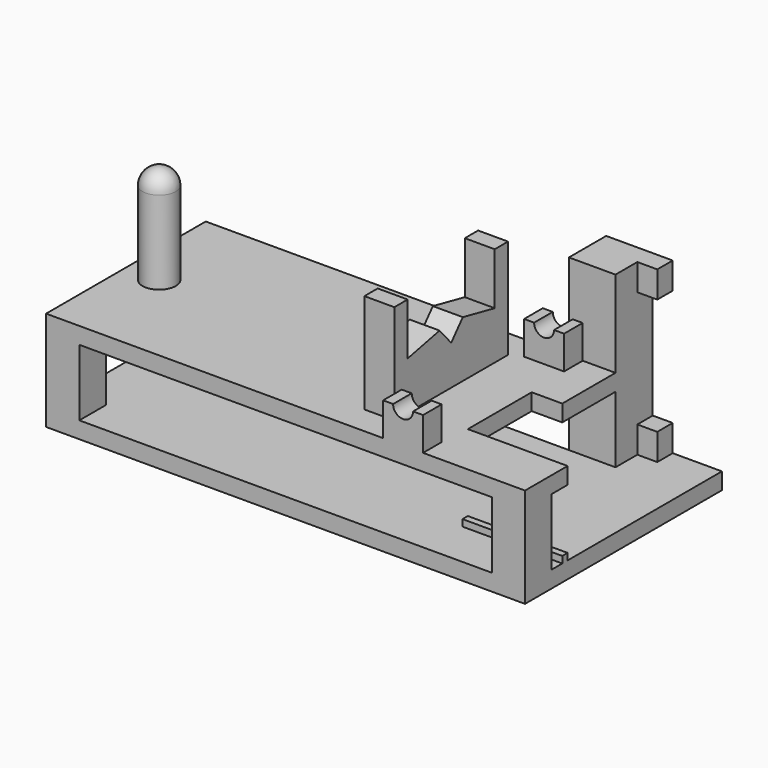
from build123d import *

# Parameters (mm, degrees)
F0_W      = 720
F0_H      = 300
F1_DEPTH  = 25
F2_W      = 50
F2_H      = 50
F3_DEPTH  = 100
F4_W      = 50
F4_H      = 50
F5_DEPTH  = 100
F6_W      = 50
F6_H      = 50
F7_DEPTH  = 25
F8_R      = 25
F9_DEPTH  = 150
F10_W     = 45
F10_H     = 106.8337794484
F11_DEPTH = 150
F13_DEPTH = 50
F14_W     = 70
F14_H     = 70
F15_DEPTH = 150
F16_DEPTH = 130
F17_R     = 25
F18_W     = 150
F18_H     = 120
F19_DEPTH = 25
F20_W     = 60
F20_H     = 35
F21_DEPTH = 50
F23_DEPTH = 300
F24_W     = 104
F24_H     = 100
F25_DEPTH = 150
F26_W     = 104
F26_H     = 170
F27_DEPTH = 25
F28_W     = 29
F28_H     = 40
F29_DEPTH = 30
F30_W     = 150
F30_H     = 10
F31_DEPTH = 10


with BuildPart() as f1:
    # F0 (on Top) → F1 (new body)
    with BuildSketch(Plane.XY):
        Rectangle(F0_W, F0_H)
    extrude(amount=F1_DEPTH)

    # F2 (on face) → F3 (join)
    with BuildSketch(Plane.XY.offset(25)):
        with Locations((-335, -125)):
            Rectangle(F2_W, F2_H)
    extrude(amount=F3_DEPTH)

    # F4 (on face) → F5 (join)
    with BuildSketch(Plane.XY.offset(25)):
        with Locations((335, -125)):
            Rectangle(F4_W, F4_H)
        with Locations((-335, 125)):
            Rectangle(F4_W, F4_H)
        with Locations((335, 125)):
            Rectangle(F4_W, F4_H)
    extrude(amount=F5_DEPTH)

    # F6 (on face) → F7 (join)
    with BuildSketch(Plane.XY.offset(125)):
        with Locations((-335, 125)):
            Rectangle(F6_W, F6_H)
        Polygon((360, 150), (-310, 150), (-310, 100), (-360, 100), (-360, -150), (360, -150), align=None)
    extrude(amount=F7_DEPTH)

    # F8 (on face) → F9 (join)
    with BuildSketch(Plane.XY.offset(150)):
        with Locations((-310, 0)):
            Circle(F8_R)
    extrude(amount=F9_DEPTH)

    # F10 (on face) → F11 (join)
    with BuildSketch(Plane.XY.offset(150)):
        with Locations((106.5, -53.4168897242)):
            Rectangle(F10_W, F10_H)
        with Locations((106.5, 53.4168897242)):
            Rectangle(F10_W, F10_H)
    extrude(amount=F11_DEPTH)

    # F12 (on face) → F13 (cut)
    with BuildSketch(Plane.YZ.offset(129)):
        Polygon((81.8337794484, 300), (-81.8337794484, 300), (-81.8337794484, 221.9447493553), (-21.8337794484, 234.4899773598), (0, 209.3995064497), (21.8337794484, 234.4899773598), (81.8337794484, 221.9447493553), align=None)
    extrude(amount=-F13_DEPTH, mode=Mode.SUBTRACT)

    # F14 (on face) → F15 (join)
    with BuildSketch(Plane.XY.offset(150)):
        with Locations((221, 185)):
            Rectangle(F14_W, F14_H)
    extrude(amount=-F15_DEPTH)

    # F14 (on face) → F16 (join)
    with BuildSketch(Plane.XY.offset(150)):
        with Locations((221, 185)):
            Rectangle(F14_W, F14_H)
    extrude(amount=F16_DEPTH)

    # F17
    f17_edges = [f1.edges().sort_by_distance(p)[0] for p in [
        (-335, 0, 300),
    ]]
    fillet(f17_edges, radius=F17_R)

    # F18 (on face) → F19 (cut)
    with BuildSketch(Plane.XY.offset(150)):
        with Locations((285, -10)):
            Rectangle(F18_W, F18_H)
    extrude(amount=-F19_DEPTH, mode=Mode.SUBTRACT)

    # F20 (on face) → F21 (join)
    with BuildSketch(Plane.XY.offset(150)):
        with Locations((176.6629952192, -132.5)):
            Rectangle(F20_W, F20_H)
        with Locations((176.6629952192, 132.5)):
            Rectangle(F20_W, F20_H)
    extrude(amount=F21_DEPTH)

    # F22 (on face) → F23 (cut)
    with BuildSketch(Plane.XZ.offset(150)):
        with BuildLine():
            Line((191.6629952192, 200), (161.6629952192, 200))
            ThreePointArc((161.6629952192, 200), (176.6629952192, 185), (191.6629952192, 200))
        make_face()
    extrude(amount=-F23_DEPTH, mode=Mode.SUBTRACT)

    # F24 (on face) → F25 (cut)
    with BuildSketch(Plane.XY.offset(150)):
        with Locations((308, 100)):
            Rectangle(F24_W, F24_H)
    extrude(amount=-F25_DEPTH, mode=Mode.SUBTRACT)

    # F26 (on face) → F27 (join)
    with BuildSketch(Plane.XY.offset(25)):
        with Locations((308, 135)):
            Rectangle(F26_W, F26_H)
    extrude(amount=-F27_DEPTH)

    # F28 (on face) → F29 (join)
    with BuildSketch(Plane.YZ.offset(256)):
        with Locations((205.5, 260)):
            Rectangle(F28_W, F28_H)
        with Locations((205.5, 45)):
            Rectangle(F28_W, F28_H)
    extrude(amount=F29_DEPTH)

    # F30 (on face) → F31 (join)
    with BuildSketch(Plane.XY.offset(25)):
        with Locations((285, -75)):
            Rectangle(F30_W, F30_H)
    extrude(amount=F31_DEPTH)


solid = f1.part
